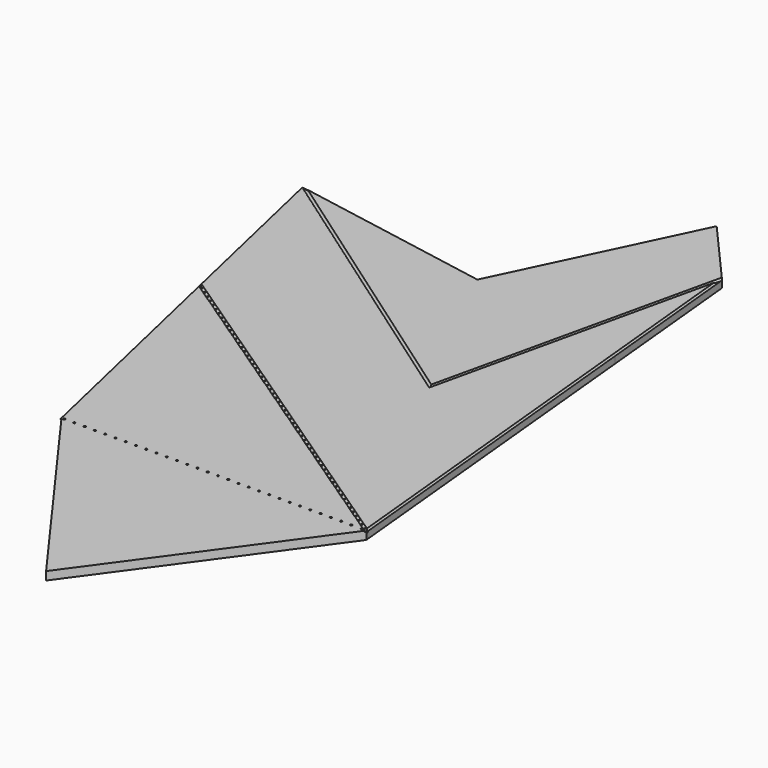
from build123d import *

# Parameters (mm, degrees)
F4_DEPTH       = 3
F9_R           = 0.35
F10_DEPTH      = 25
F10_DEPTH_BACK = 25


with BuildPart() as f2:
    # F2: sweep along a path in F0
    with BuildLine(Plane.XY) as f2_path:
        Line((-3.0785e-06, -1.2791e-06), (109.9999969215, -1.2791e-06))
        Line((109.9999969215, -1.2791e-06), (68.9863906018, 80.1116963477))
        Line((68.9863906018, 80.1116963477), (38.4540392304, 139.750404581))
    # F1 (on Right) → F2 (sweep)
    with BuildSketch(Plane.YZ):
        with BuildLine():
            ThreePointArc((-0.55, 0), (0, -0.55), (0.55, 0))
            Line((0.55, 0), (-0.55, 0))
        make_face()
    sweep(path=f2_path.line, transition=Transition.RIGHT)

    # F0 (on Top) → F4 (join)
    with BuildSketch(Plane.XY):
        Polygon((109.9999969215, -1.2791e-06), (-3.0785e-06, -1.2791e-06), (54.9999969215, -75.701006905), align=None)
        Polygon((-20.1084618845, 87.7248520092), (-3.0785e-06, -1.2791e-06), (109.9999969215, -1.2791e-06), align=None)
        Polygon((-20.1084618845, 87.7248520092), (109.9999969215, -1.2791e-06), (68.9863906018, 80.1116963477), align=None)
        Polygon((-35.0780923289, 153.0311316793), (-20.1084618845, 87.7248520092), (68.9863906018, 80.1116963477), align=None)
        Polygon((-35.0780923289, 153.0311316793), (68.9863906018, 80.1116963477), (38.4540392304, 139.750404581), align=None)
        Polygon((38.4540392304, 139.750404581), (68.9863906018, 80.1116963477), (70.6711955338, 207.1700376535), align=None)
        Polygon((70.6711955338, 207.1700376535), (68.9863906018, 80.1116963477), (92.2181409289, 182.6526550598), align=None)
        Polygon((92.2181409289, 182.6526550598), (68.9863906018, 80.1116963477), (97.5531238791, 127.8524807816), align=None)
        Polygon((68.9863906018, 80.1116963477), (109.9999969215, -1.2791e-06), (97.5531238791, 127.8524807816), align=None)
    extrude(amount=-F4_DEPTH)

    # F7: sweep along a path in F0
    with BuildLine(Plane.XY) as f7_path:
        Line((-20.1084618845, 87.7248520092), (109.9999969215, -1.2791e-06))
        Line((109.9999969215, -1.2791e-06), (92.2181409289, 182.6526550598))
        Line((92.2181409289, 182.6526550598), (68.9863906018, 80.1116963477))
        Line((68.9863906018, 80.1116963477), (-35.0780923289, 153.0311316793))
        Line((-35.0780923289, 153.0311316793), (38.4540392304, 139.750404581))
        Line((38.4540392304, 139.750404581), (70.6711955338, 207.1700376535))
    # F6 (on line) → F7 (sweep, cut)
    with BuildSketch(Plane(origin=(-54.4865576329, 36.7372369052, 0), x_dir=(0.5590421785, 0.8291392179, 0), z_dir=(0.8291392179, -0.5590421785, 0))):
        with BuildLine():
            Line((62.0446368497, 0), (60.9446368497, 0))
            ThreePointArc((60.9446368497, 0), (61.4946368497, -0.55), (62.0446368497, 0))
        make_face()
    sweep(path=f7_path.line, transition=Transition.RIGHT, mode=Mode.SUBTRACT)

    # F8: sweep along a path in F0
    with BuildLine(Plane.XY) as f8_path:
        Line((-20.1084618845, 87.7248520092), (109.9999969215, -1.2791e-06))
    # F6 (on line) → F8 (sweep, cut)
    with BuildSketch(Plane(origin=(-54.4865576329, 36.7372369052, 0), x_dir=(0.5590421785, 0.8291392179, 0), z_dir=(0.8291392179, -0.5590421785, 0))):
        with BuildLine():
            ThreePointArc((62.0446368497, 0), (61.4946368497, 0.55), (60.9446368497, 0))
            Line((60.9446368497, 0), (62.0446368497, 0))
        make_face()
    sweep(path=f8_path.line, mode=Mode.SUBTRACT)

    # F9 (on Top) → F10 (cut, two sides)
    with BuildSketch(Plane.XY) as f10_sk:
        with Locations((0.9863552353, 0)):
            Circle(F9_R)
        with Locations((216.7863552353, 0)):
            Circle(F9_R)
        with Locations((324.6863552353, 0)):
            Circle(F9_R)
        with Locations((432.5863552353, 0)):
            Circle(F9_R)
        with Locations((4.6863552353, 0)):
            Circle(F9_R)
        with Locations((8.3863552353, 0)):
            Circle(F9_R)
        with Locations((12.0863552353, 0)):
            Circle(F9_R)
        with Locations((15.7863552353, 0)):
            Circle(F9_R)
        with Locations((19.4863552353, 0)):
            Circle(F9_R)
        with Locations((23.1863552353, 0)):
            Circle(F9_R)
        with Locations((26.8863552353, 0)):
            Circle(F9_R)
        with Locations((30.5863552353, 0)):
            Circle(F9_R)
        with Locations((34.2863552353, 0)):
            Circle(F9_R)
        with Locations((37.9863552353, 0)):
            Circle(F9_R)
        with Locations((41.6863552353, 0)):
            Circle(F9_R)
        with Locations((45.3863552353, 0)):
            Circle(F9_R)
        with Locations((49.0863552353, 0)):
            Circle(F9_R)
        with Locations((52.7863552353, 0)):
            Circle(F9_R)
        with Locations((56.4863552353, 0)):
            Circle(F9_R)
        with Locations((60.1863552353, 0)):
            Circle(F9_R)
        with Locations((63.8863552353, 0)):
            Circle(F9_R)
        with Locations((67.5863552353, 0)):
            Circle(F9_R)
        with Locations((71.2863552353, 0)):
            Circle(F9_R)
        with Locations((74.9863552353, 0)):
            Circle(F9_R)
        with Locations((78.6863552353, 0)):
            Circle(F9_R)
        with Locations((82.3863552353, 0)):
            Circle(F9_R)
        with Locations((86.0863552353, 0)):
            Circle(F9_R)
        with Locations((89.7863552353, 0)):
            Circle(F9_R)
        with Locations((93.4863552353, 0)):
            Circle(F9_R)
        with Locations((97.1863552353, 0)):
            Circle(F9_R)
        with Locations((100.8863552353, 0)):
            Circle(F9_R)
        with Locations((104.5863552353, 0)):
            Circle(F9_R)
        with Locations((108.2863552353, 0)):
            Circle(F9_R)
        with Locations((-19.2574877292, 87.1419683099)):
            Circle(F9_R)
        with Locations((-17.0192, 85.6344)):
            Circle(F9_R)
        with Locations((-14.7809122708, 84.1268316901)):
            Circle(F9_R)
        with Locations((-12.5426245416, 82.6192633802)):
            Circle(F9_R)
        with Locations((-10.3043368124, 81.1116950704)):
            Circle(F9_R)
        with Locations((-8.0660490832, 79.6041267605)):
            Circle(F9_R)
        with Locations((-5.827761354, 78.0965584506)):
            Circle(F9_R)
        with Locations((-3.5894736248, 76.5889901407)):
            Circle(F9_R)
        with Locations((-1.3511858957, 75.0814218308)):
            Circle(F9_R)
        with Locations((0.8871018335, 73.573853521)):
            Circle(F9_R)
        with Locations((3.1253895627, 72.0662852111)):
            Circle(F9_R)
        with Locations((5.3636772919, 70.5587169012)):
            Circle(F9_R)
        with Locations((7.6019650211, 69.0511485913)):
            Circle(F9_R)
        with Locations((9.8402527503, 67.5435802814)):
            Circle(F9_R)
        with Locations((12.0785404795, 66.0360119716)):
            Circle(F9_R)
        with Locations((14.3168282087, 64.5284436617)):
            Circle(F9_R)
        with Locations((16.5551159379, 63.0208753518)):
            Circle(F9_R)
        with Locations((18.7934036671, 61.5133070419)):
            Circle(F9_R)
        with Locations((21.0316913963, 60.0057387321)):
            Circle(F9_R)
        with Locations((23.2699791255, 58.4981704222)):
            Circle(F9_R)
        with Locations((25.5082668546, 56.9906021123)):
            Circle(F9_R)
        with Locations((27.7465545838, 55.4830338024)):
            Circle(F9_R)
        with Locations((29.984842313, 53.9754654925)):
            Circle(F9_R)
        with Locations((32.2231300422, 52.4678971827)):
            Circle(F9_R)
        with Locations((34.4614177714, 50.9603288728)):
            Circle(F9_R)
        with Locations((36.6997055006, 49.4527605629)):
            Circle(F9_R)
        with Locations((38.9379932298, 47.945192253)):
            Circle(F9_R)
        with Locations((41.176280959, 46.4376239431)):
            Circle(F9_R)
        with Locations((43.4145686882, 44.9300556333)):
            Circle(F9_R)
        with Locations((45.6528564174, 43.4224873234)):
            Circle(F9_R)
        with Locations((47.8911441466, 41.9149190135)):
            Circle(F9_R)
        with Locations((50.1294318758, 40.4073507036)):
            Circle(F9_R)
        with Locations((52.3677196049, 38.8997823937)):
            Circle(F9_R)
        with Locations((54.6060073341, 37.3922140839)):
            Circle(F9_R)
        with Locations((56.8442950633, 35.884645774)):
            Circle(F9_R)
        with Locations((59.0825827925, 34.3770774641)):
            Circle(F9_R)
        with Locations((61.3208705217, 32.8695091542)):
            Circle(F9_R)
        with Locations((63.5591582509, 31.3619408443)):
            Circle(F9_R)
        with Locations((65.7974459801, 29.8543725345)):
            Circle(F9_R)
        with Locations((68.0357337093, 28.3468042246)):
            Circle(F9_R)
        with Locations((70.2740214385, 26.8392359147)):
            Circle(F9_R)
        with Locations((72.5123091677, 25.3316676048)):
            Circle(F9_R)
        with Locations((74.7505968969, 23.8240992949)):
            Circle(F9_R)
        with Locations((76.9888846261, 22.3165309851)):
            Circle(F9_R)
        with Locations((79.2271723552, 20.8089626752)):
            Circle(F9_R)
        with Locations((81.4654600844, 19.3013943653)):
            Circle(F9_R)
        with Locations((83.7037478136, 17.7938260554)):
            Circle(F9_R)
        with Locations((85.9420355428, 16.2862577456)):
            Circle(F9_R)
        with Locations((88.180323272, 14.7786894357)):
            Circle(F9_R)
        with Locations((90.4186110012, 13.2711211258)):
            Circle(F9_R)
        with Locations((92.6568987304, 11.7635528159)):
            Circle(F9_R)
        with Locations((94.8951864596, 10.255984506)):
            Circle(F9_R)
        with Locations((97.1334741888, 8.7484161962)):
            Circle(F9_R)
        with Locations((99.371761918, 7.2408478863)):
            Circle(F9_R)
        with Locations((101.6100496472, 5.7332795764)):
            Circle(F9_R)
        with Locations((103.8483373764, 4.2257112665)):
            Circle(F9_R)
        with Locations((106.0866251055, 2.7181429566)):
            Circle(F9_R)
        with Locations((108.3249128347, 1.2105746468)):
            Circle(F9_R)
    extrude(amount=-F10_DEPTH, mode=Mode.SUBTRACT)
    extrude(f10_sk.sketch, amount=F10_DEPTH_BACK, mode=Mode.SUBTRACT)


solid = f2.part
